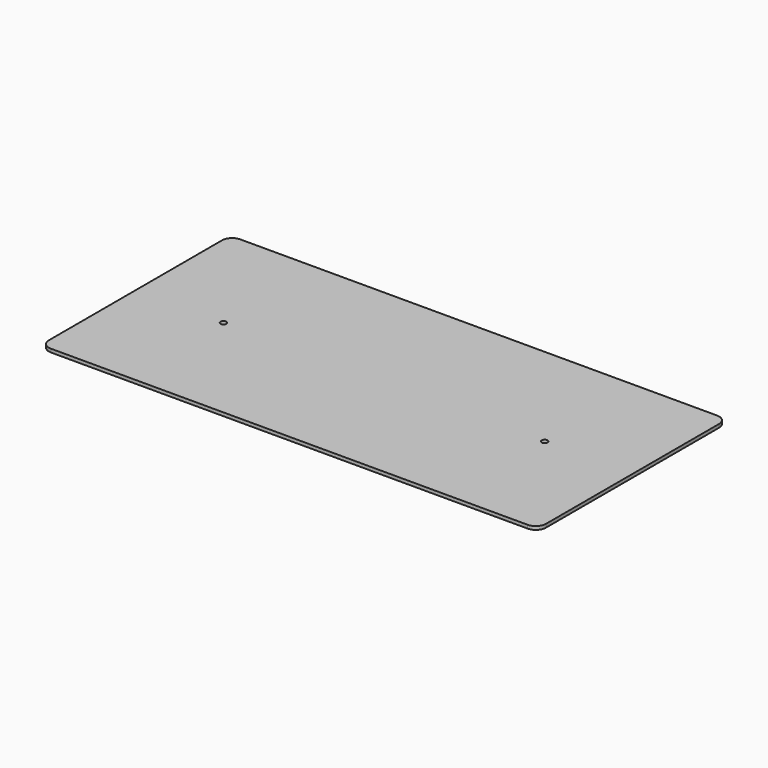
from build123d import *

# Parameters (mm, degrees)
F0_W     = 294
F0_H     = 140
F1_DEPTH = 2
F2_R     = 6
F3_R     = 1.75
F4_DEPTH = 2


with BuildPart() as f1:
    # F0 (on Top) → F1 (new body)
    with BuildSketch(Plane.XY):
        Rectangle(F0_W, F0_H)
    extrude(amount=F1_DEPTH)

    # F2
    f2_edges = [f1.edges().sort_by_distance(p)[0] for p in [
        (147, -70, 1),
        (147, 70, 1),
        (-147, -70, 1),
        (-147, 70, 1),
    ]]
    fillet(f2_edges, radius=F2_R)

    # F3 (on face) → F4 (cut, through all)
    with BuildSketch(Plane(origin=(0, 0, 0), x_dir=(1, 0, 0), z_dir=(0, 0, -1))):
        with Locations((-95, 0)):
            Circle(F3_R)
        with Locations((95, 0)):
            Circle(F3_R)
    extrude(amount=-F4_DEPTH, mode=Mode.SUBTRACT)


solid = f1.part
